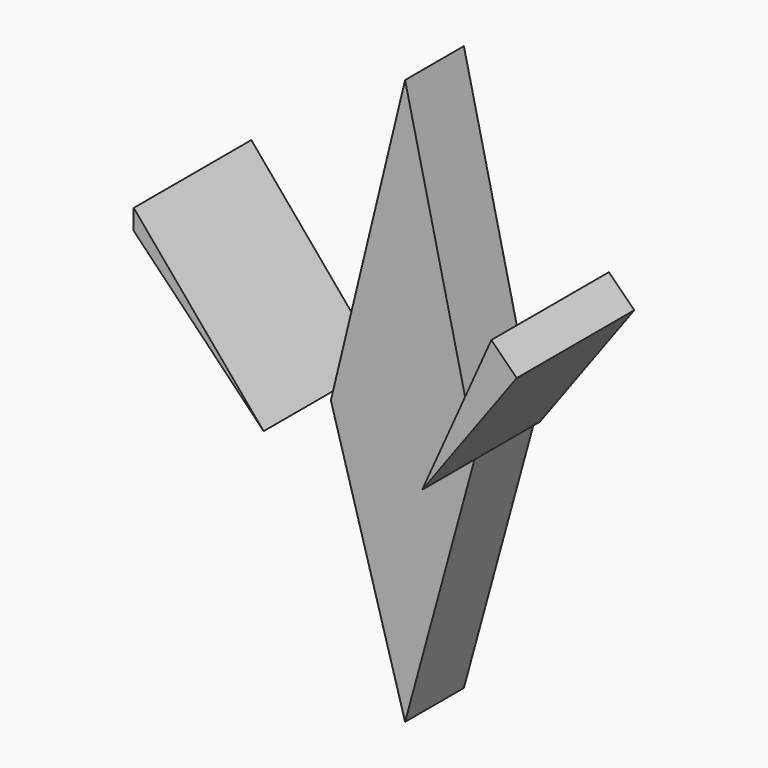
from build123d import *

# Parameters (mm, degrees)
F1_DEPTH = 12.7
F3_DEPTH = 25.4


with BuildPart() as f1:
    # F0 (on Front) → F1 (new body)
    with BuildSketch(Plane.XZ):
        Polygon((12.241966, 0), (0, 52.902788), (-12.824917, 0), (0, -44.741478), align=None)
    extrude(amount=F1_DEPTH)


with BuildPart() as f3:
    # F2 (on Front) → F3 (new body)
    with BuildSketch(Plane.XZ):
        Polygon((-36.725901, 23.172295), (-14.282295, 0), (-36.725901, 26.670001), align=None)
        Polygon((25.066882, 26.670001), (13.116393, 0), (29.439019, 22.297869), align=None)
    extrude(amount=F3_DEPTH)


solid = Compound([f1.part, f3.part])
